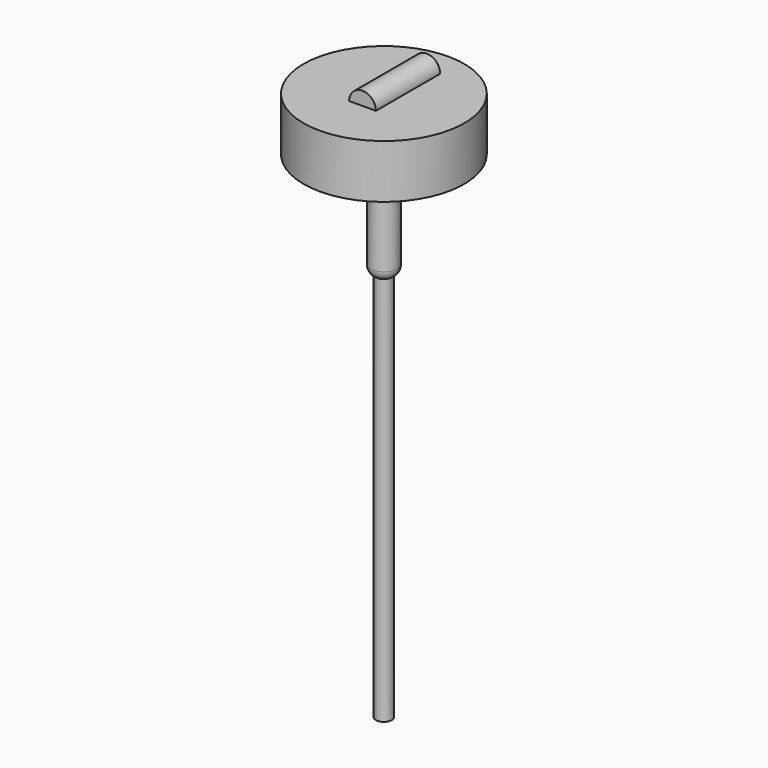
from build123d import *

# Parameters (mm, degrees)
F0_R          = 6.35
F1_DEPTH      = 76.2
F2_R          = 3.81
F3_DEPTH      = 184.15
F3_DEPTH_BACK = 25.4
F4_R          = 38.1
F5_DEPTH      = 25.4
F6_R          = 5.08
F9_T          = -0.635
F10_ANGLE     = 180


with BuildPart() as f1:
    # F0 (on Top) → F1 (new body)
    with BuildSketch(Plane.XY):
        Circle(F0_R)
    extrude(amount=-F1_DEPTH)

    # F4 (on Top) → F5 (join)
    with BuildSketch(Plane.XY):
        Circle(F4_R)
    extrude(amount=-F5_DEPTH)

    # F6
    f6_edges = [f1.edges().sort_by_distance(p)[0] for p in [
        (-6.35, 0, -76.2),
        (-6.35, 0, -25.4),
        (6.35, 0, -50.8),
    ]]
    fillet(f6_edges, radius=F6_R)

    # F7 (on face) → F8 (revolve)
    with BuildSketch(Plane.XY):
        Polygon((0, -25.4), (0, 0), (0, 12.7), (-6.35, 12.7), (-6.35, -25.4), align=None)
    revolve(axis=Axis((0, -12.7, 0), (0, -1, 0)))


with BuildPart() as f3:
    # F2 (on face) → F3 (new body, two sides)
    with BuildSketch(Plane(origin=(0, 0, -76.2), x_dir=(1, 0, 0), z_dir=(0, 0, -1))) as f3_sk:
        Circle(F2_R)
    extrude(amount=F3_DEPTH)
    extrude(f3_sk.sketch, amount=-F3_DEPTH_BACK)

    # F9
    f9_openings = [f3.faces().sort_by_distance(p)[0] for p in [
        (0, 0, -260.35),
    ]]
    offset(amount=F9_T, openings=f9_openings)


with BuildPart() as f1_1:
    # F10: moved
    add(f1.part.rotate(Axis((0, 0, 0), (0, 0, 1)), F10_ANGLE))


with BuildPart() as f3_1:
    # F10: moved
    add(f3.part.rotate(Axis((0, 0, 0), (0, 0, 1)), F10_ANGLE))


solid = Compound([f1_1.part, f3_1.part])
